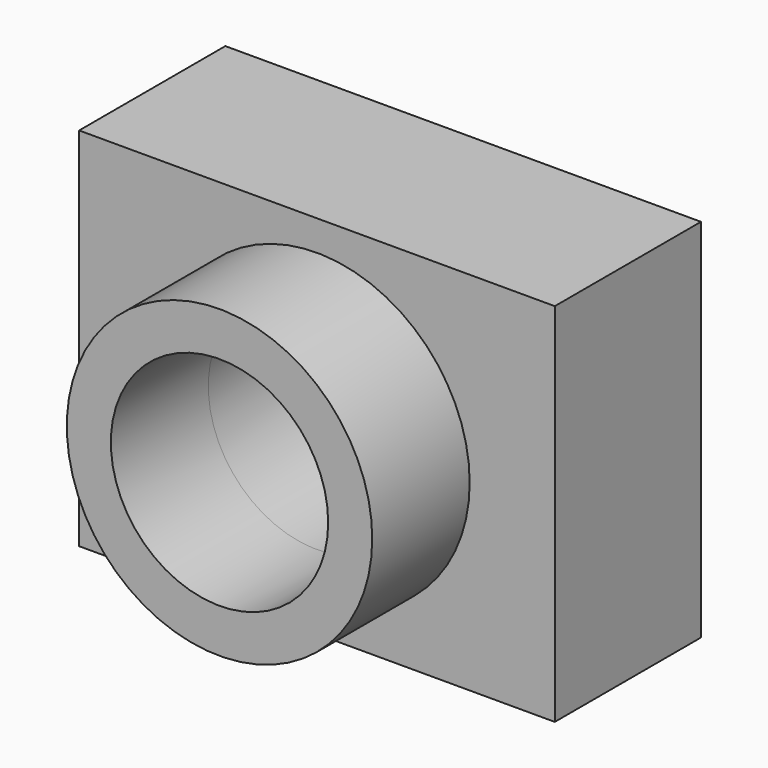
from build123d import *

# Parameters (mm, degrees)
F0_W     = 99.182904
F0_H     = 76.322906
F1_DEPTH = 38.1
F2_R     = 31.844331
F2_R_2   = 22.660652
F3_DEPTH = 25.4
F4_R     = 22.660652
F5_DEPTH = 76.2


with BuildPart() as f1:
    # F0 (on Front) → F1 (new body)
    with BuildSketch(Plane.XZ):
        Rectangle(F0_W, F0_H)
    extrude(amount=F1_DEPTH)

    # F2 (on face) → F3 (join)
    with BuildSketch(Plane.XZ.offset(38.1)):
        Circle(F2_R)
        Circle(F2_R_2, mode=Mode.SUBTRACT)
    extrude(amount=F3_DEPTH)

    # F4 (on face) → F5 (cut)
    with BuildSketch(Plane.XZ.offset(38.1)):
        Circle(F4_R)
    extrude(amount=-F5_DEPTH, mode=Mode.SUBTRACT)


solid = f1.part
